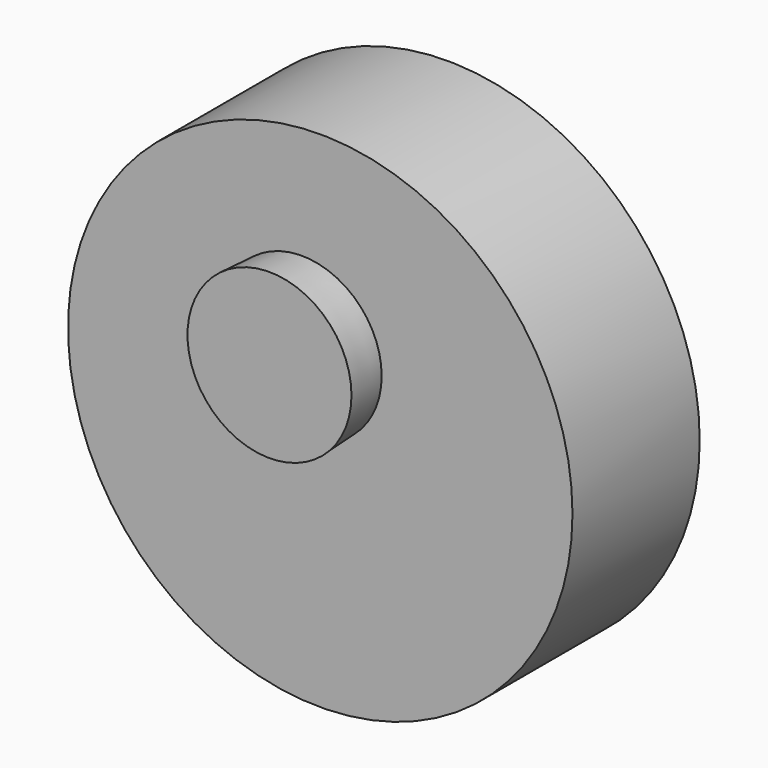
from build123d import *

# Parameters (mm, degrees)
F0_R     = 31.7633425833
F0_R_2   = 10.0588653516
F1_DEPTH = 20.0282335281
F2_R     = 10.0588653516
F3_DEPTH = 5.0843302161
F3_TAPER = -3
F4_DEPTH = 25.4


with BuildPart() as f1:
    # F0 (on Front) → F1 (new body)
    with BuildSketch(Plane.XZ):
        with Locations((-10.1354271173, 18.9416185021)):
            Circle(F0_R)
        with Locations((-12.4615877867, 26.4185667038)):
            Circle(F0_R_2, mode=Mode.SUBTRACT)
    extrude(amount=-F1_DEPTH)


with BuildPart() as f3:
    # F2 (on face) → F3 (new body)
    with BuildSketch(Plane.XZ):
        with Locations((-12.4615877867, 26.4185667038)):
            Circle(F2_R)
    extrude(amount=F3_DEPTH, taper=F3_TAPER)


with BuildPart() as f4:
    # F4 (new): a face of the model
    f4_faces = [f3.part.faces().sort_by_distance(p)[0] for p in [
        (-12.4615877867, 0, 26.4185667038),
    ]]
    extrude(f4_faces, amount=F4_DEPTH)


solid = Compound([f1.part, f3.part, f4.part])
